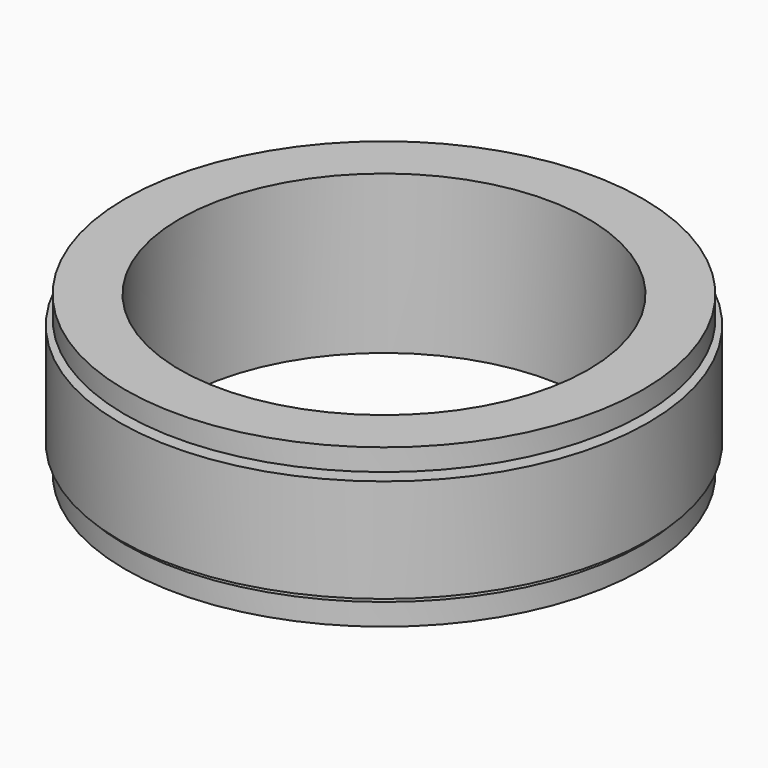
from build123d import *

# Parameters (mm, degrees)
F0_R     = 10.7152116662
F0_R_2   = 9.525
F1_DEPTH = 7.366
F0_R_3   = 12.0690039206
F2_DEPTH = 1.016
F3_START = 6.35
F3_DEPTH = 1.016
F5_START = 0.254
F4_R     = 12.3171181136
F4_R_2   = 11.049
F5_DEPTH = 4.826


with BuildPart() as f1:
    # F0 (on Top) → F1 (new body)
    with BuildSketch(Plane.XY):
        Circle(F0_R)
        Circle(F0_R_2, mode=Mode.SUBTRACT)
    extrude(amount=F1_DEPTH)

    # F0 (on Top) → F2 (join)
    with BuildSketch(Plane.XY):
        Circle(F0_R_3)
        Circle(F0_R, mode=Mode.SUBTRACT)
    extrude(amount=F2_DEPTH)

    # F0 (on Top) → F3 (join)
    with BuildSketch(Plane.XY.offset(F3_START)):
        Circle(F0_R_3)
        Circle(F0_R, mode=Mode.SUBTRACT)
    extrude(amount=F3_DEPTH)


with BuildPart() as f5:
    # F4 (on face) → F5 (new body)
    with BuildSketch(Plane.XY.offset(1.016).offset(F5_START)):
        Circle(F4_R)
        Circle(F4_R_2, mode=Mode.SUBTRACT)
    extrude(amount=F5_DEPTH)


solid = Compound([f1.part, f5.part])
